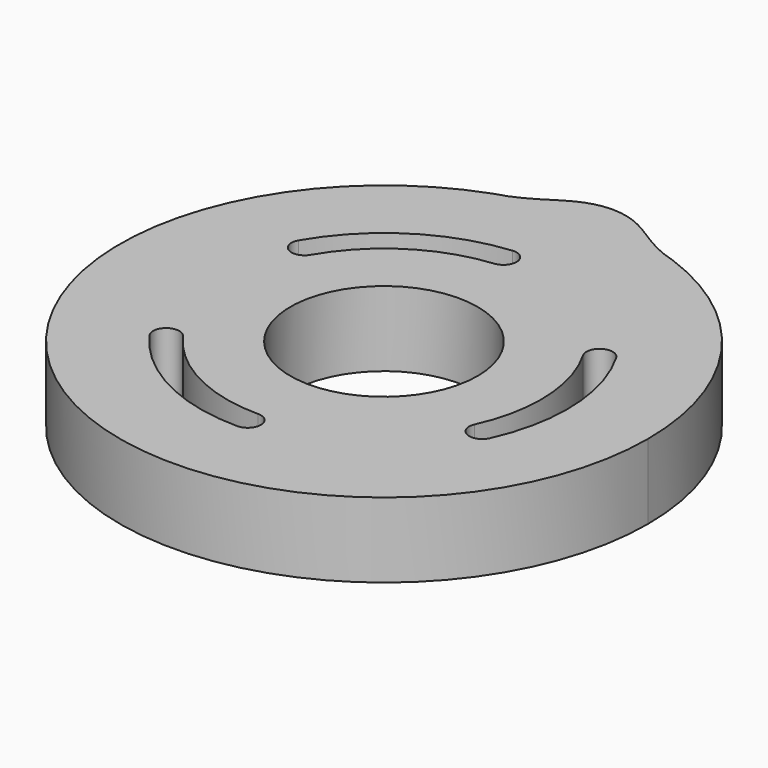
from build123d import *

# Parameters (mm, degrees)
F0_R     = 15
F1_DEPTH = 12


with BuildPart() as f1:
    # F0 (on Top) → F1 (new body)
    with BuildSketch(Plane.XY):
        with BuildLine():
            ThreePointArc((-14.4602486175, 39.7292065563), (-24.2502028978, -34.6328789316), (42.2789385353, 0))
            ThreePointArc((42.2789385353, 0), (34.6328789316, 24.2502028978), (14.4602486175, 39.7292065563))
            add(Edge.make_bspline(
                [(12.4123624889, 40.4158619989), (13.0447010808, 40.1636344912), (13.7232658531, 39.9317569676), (14.4602486175, 39.7292065563)],
                knots=[13.9204526319, 13.9204526319, 13.9204526319, 13.9204526319, 15.6747582788, 15.6747582788, 15.6747582788, 15.6747582788], degree=3))
            ThreePointArc((12.4123624889, 40.4158619989), (0, 42.2789385353), (-12.4123624889, 40.4158619989))
            add(Edge.make_bspline(
                [(-12.4123624889, 40.4158619989), (-13.0447010808, 40.1636344912), (-13.7232658531, 39.9317569676), (-14.4602486175, 39.7292065563)],
                knots=[13.9204526319, 13.9204526319, 13.9204526319, 13.9204526319, 15.6747582788, 15.6747582788, 15.6747582788, 15.6747582788], degree=3))
        make_face()
        with BuildLine():
            ThreePointArc((-20.5104275981, -14.6060808402), (-11.5377445773, -22.3806990024), (0, -25.1796592067))
            ThreePointArc((0, -25.1796592067), (2.1, -27.2796592067), (0, -29.3796592067))
            ThreePointArc((0, -29.3796592067), (-13.4622554227, -26.1138287893), (-23.9315936752, -17.0423941765))
            ThreePointArc((-23.9315936752, -17.0423941765), (-23.4391673048, -14.1136544698), (-20.5104275981, -14.6060808402))
        make_face(mode=Mode.SUBTRACT)
        Circle(F0_R, mode=Mode.SUBTRACT)
        with BuildLine():
            ThreePointArc((22.9044508564, -10.4595109223), (25.1511261792, 1.1983695948), (21.8062245317, 12.5898296034))
            ThreePointArc((21.8062245317, 12.5898296034), (22.5748778796, 15.4584829513), (25.4435312276, 14.6898296034))
            ThreePointArc((25.4435312276, 14.6898296034), (29.346366833, 1.3982592064), (26.7249431358, -12.2041709875))
            ThreePointArc((26.7249431358, -12.2041709875), (23.9423669635, -13.2420870946), (22.9044508564, -10.4595109223))
        make_face(mode=Mode.SUBTRACT)
        with BuildLine():
            ThreePointArc((-2.3940232583, 25.0655917625), (-13.6133816018, 21.1823294075), (-21.8062245317, 12.5898296034))
            ThreePointArc((-21.8062245317, 12.5898296034), (-24.6748778796, 11.8211762554), (-25.4435312276, 14.6898296034))
            ThreePointArc((-25.4435312276, 14.6898296034), (-15.8841114103, 24.7155695829), (-2.7933494606, 29.246565164))
            ThreePointArc((-2.7933494606, 29.246565164), (-0.5031996587, 27.3557415644), (-2.3940232583, 25.0655917625))
        make_face(mode=Mode.SUBTRACT)
        with BuildLine():
            ThreePointArc((-12.4123624889, 40.4158619989), (0, 42.2789385353), (12.4123624889, 40.4158619989))
            add(Edge.make_bspline(
                [(0, 45.7789385353), (5.287733366, 45.7000511275), (7.3947423094, 42.4172926387), (12.4123624889, 40.4158619989)],
                knots=[0, 0, 0, 0, 13.9204526319, 13.9204526319, 13.9204526319, 13.9204526319], degree=3))
            add(Edge.make_bspline(
                [(0, 45.7789385353), (-5.287733366, 45.7000511275), (-7.3947423094, 42.4172926387), (-12.4123624889, 40.4158619989)],
                knots=[0, 0, 0, 0, 13.9204526319, 13.9204526319, 13.9204526319, 13.9204526319], degree=3))
        make_face()
    extrude(amount=F1_DEPTH)


solid = f1.part
